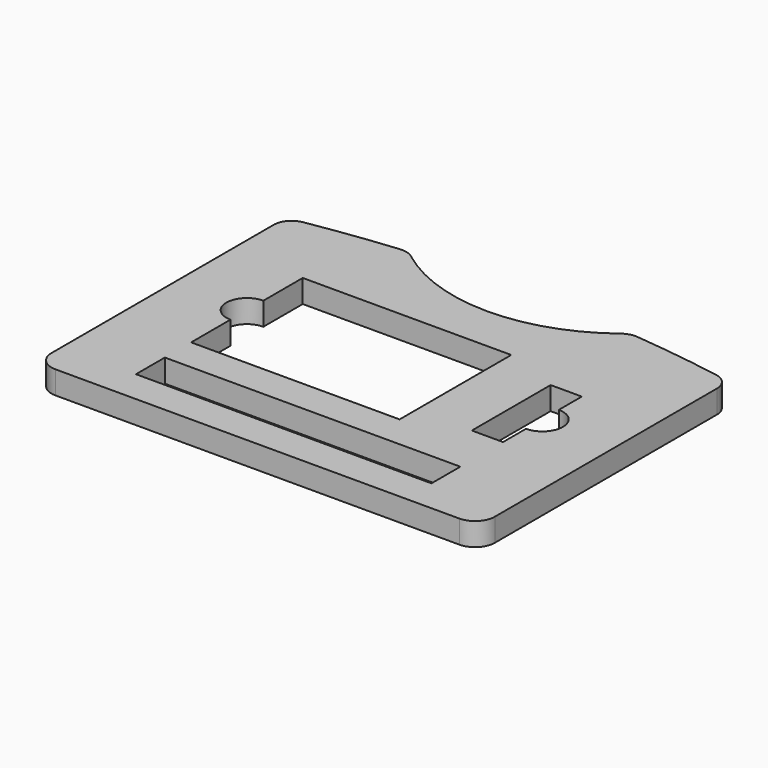
from build123d import *

# Parameters (mm, degrees)
F1_DEPTH = 14
F2_W     = 127
F2_H     = 85
F2_W_2   = 180
F2_H_2   = 22
F2_W_3   = 19
F2_H_3   = 60
F3_DEPTH = 25
F4_R     = 12.5
F5_DEPTH = 25


with BuildPart() as f1:
    # F0 (on Top) → F1 (new body)
    with BuildSketch(Plane.XY):
        with BuildLine():
            ThreePointArc((-135, -87.75), (-131.485281, -96.235281), (-123, -99.75))
            Line((-123, -99.75), (123, -99.75))
            ThreePointArc((123, -99.75), (131.485281, -96.235281), (135, -87.75))
            Line((135, -87.75), (135, 81.331121))
            ThreePointArc((135, 81.331121), (132.403394, 88.429218), (125.839459, 92.17623))
            ThreePointArc((125.839459, 92.17623), (99.105981, 96.217898), (72.244569, 99.296609))
            ThreePointArc((72.244569, 99.296609), (67.790252, 98.888715), (63.794752, 96.877918))
            ThreePointArc((63.794752, 96.877918), (33.680622, 80.80401), (0, 75.25))
            ThreePointArc((0, 75.25), (-33.680622, 80.80401), (-63.794752, 96.877918))
            ThreePointArc((-63.794752, 96.877918), (-67.790252, 98.888715), (-72.244569, 99.296609))
            ThreePointArc((-72.244569, 99.296609), (-99.105981, 96.217898), (-125.839459, 92.17623))
            ThreePointArc((-125.839459, 92.17623), (-132.403394, 88.429218), (-135, 81.331121))
            Line((-135, 81.331121), (-135, -87.75))
        make_face()
    extrude(amount=F1_DEPTH)

    # F2 (on face) → F3 (cut)
    with BuildSketch(Plane.XY.offset(14)):
        with Locations((-26.5, 4.75)):
            Rectangle(F2_W, F2_H)
        with Locations((0, -68.75)):
            Rectangle(F2_W_2, F2_H_2)
        with Locations((80.5, 4.75)):
            Rectangle(F2_W_3, F2_H_3)
    extrude(amount=-F3_DEPTH, mode=Mode.SUBTRACT)

    # F4 (on face) → F5 (cut)
    with BuildSketch(Plane.XY.offset(14)):
        with Locations((-90, 4.75)):
            Circle(F4_R)
        with Locations((90, 4.75)):
            Circle(F4_R)
    extrude(amount=-F5_DEPTH, mode=Mode.SUBTRACT)


solid = f1.part
